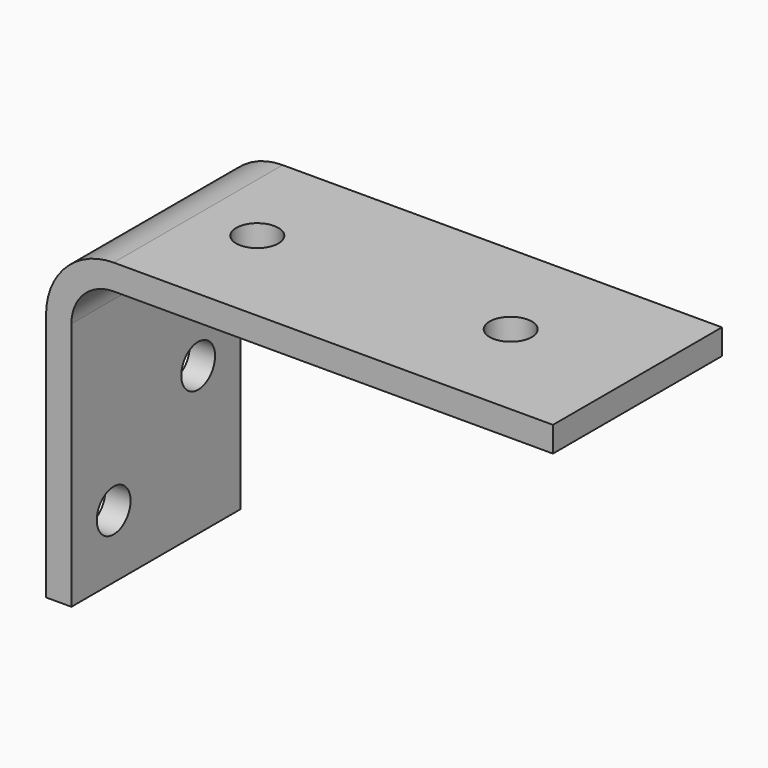
from build123d import *

# Parameters (mm, degrees)
F1_DEPTH = 50
F2_R     = 5
F3_DEPTH = 25
F4_R     = 5
F5_DEPTH = 25


with BuildPart() as f1:
    # F0 (on Front) → F1 (new body)
    with BuildSketch(Plane.XZ):
        with BuildLine():
            Line((-53.070944, 22.410468), (-53.070944, -36.589532))
            Line((-53.070944, -36.589532), (-47.070944, -36.589532))
            Line((-47.070944, -36.589532), (-47.070944, 22.410468))
            ThreePointArc((-47.070944, 22.410468), (-44.142012, 29.481535), (-37.070944, 32.410468))
            Line((-37.070944, 32.410468), (66.929056, 32.410468))
            Line((66.929056, 32.410468), (66.929056, 38.410468))
            Line((66.929056, 38.410468), (-37.070944, 38.410468))
            ThreePointArc((-37.070944, 38.410468), (-48.384652, 33.724176), (-53.070944, 22.410468))
        make_face()
    extrude(amount=F1_DEPTH)

    # F2 (on face) → F3 (cut)
    with BuildSketch(Plane.XY.offset(38.410468)):
        with Locations((-23.070944, -25)):
            Circle(F2_R)
        with Locations((36.929056, -25)):
            Circle(F2_R)
    extrude(amount=-F3_DEPTH, mode=Mode.SUBTRACT)

    # F4 (on face) → F5 (cut)
    with BuildSketch(Plane(origin=(-53.070944, 0, 0), x_dir=(0, -1, 0), z_dir=(-1, 0, 0))):
        with Locations((12.5, -1.589532)):
            Circle(F4_R)
        with Locations((37.5, -21.589532)):
            Circle(F4_R)
    extrude(amount=-F5_DEPTH, mode=Mode.SUBTRACT)


solid = f1.part
